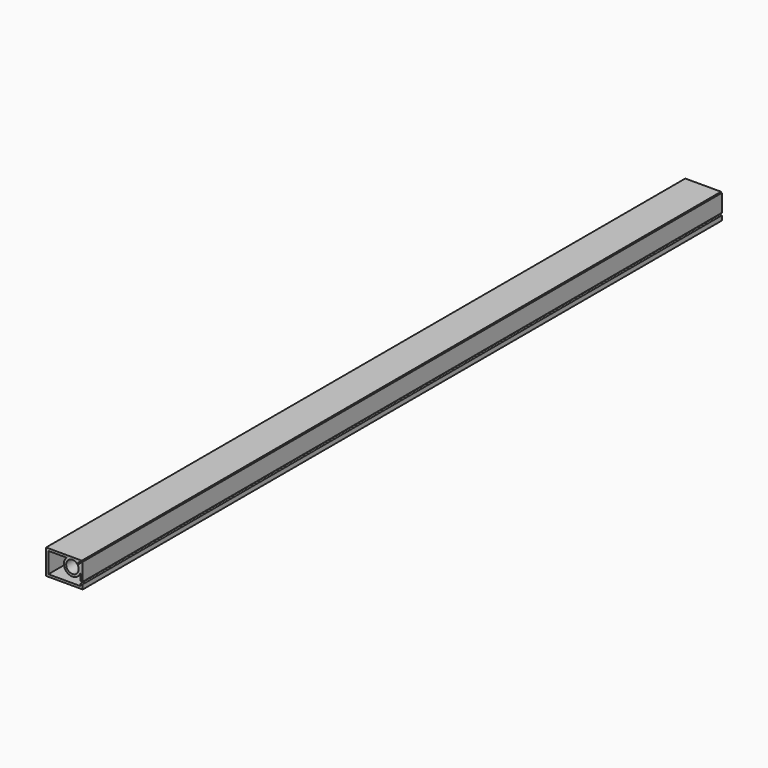
from build123d import *

# Parameters (mm, degrees)
F2_DEPTH = 1910
F7_DEPTH = 700
F9_DEPTH = 2000


with BuildPart() as f2:
    # F1 (on Front) → F2 (new body)
    with BuildSketch(Plane.XZ):
        with BuildLine():
            Line((7.5, 37.974085065), (7.5, 40))
            Line((7.5, 40), (-15, 40))
            Line((-15, 40), (-15, 37))
            Line((-15, 37), (-15, 31))
            Line((-15, 31), (-15, 29))
            Line((-15, 29), (-15, 26))
            Line((-15, 26), (-15, 24))
            Line((-15, 24), (-13, 24))
            Line((-13, 24), (-11, 24))
            Line((-11, 24), (-11, 26))
            Line((-11, 26), (-9, 26))
            Line((-9, 26), (-9, 20))
            Line((-9, 20), (-11, 20))
            Line((-11, 20), (-11, 22))
            Line((-11, 22), (-15, 22))
            Line((-15, 22), (-15, 18))
            Line((-15, 18), (-15, 7.7))
            Line((-15, 7.7), (-13, 7.7))
            Line((-13, 7.7), (-13, 11.4920835048))
            Line((-13, 11.4920835048), (-7, 11.4920835048))
            Line((-7, 11.4920835048), (-7, 3.7))
            Line((-7, 3.7), (-11, 3.7))
            Line((-11, 3.7), (-11, 5.7))
            Line((-11, 5.7), (-15, 5.7))
            Line((-15, 5.7), (-15, 3))
            Line((-15, 3), (-15, 0))
            Line((-15, 0), (-13, 0))
            Line((-13, 0), (-12, 0))
            Line((-12, 0), (-5, 0))
            Line((-5, 0), (-5, 13.4920835048))
            Line((-5, 13.4920835048), (-7, 13.4920835048))
            Line((-7, 13.4920835048), (-9.1588944197, 13.4920835048))
            Line((-9.1588944197, 13.4920835048), (-9.1588944197, 15.4920835048))
            Line((-9.1588944197, 15.4920835048), (1.5, 20))
            Line((1.5, 20), (10.8411055803, 15.4920835048))
            Line((10.8411055803, 15.4920835048), (10.8411055803, 13.4920835048))
            Line((10.8411055803, 13.4920835048), (8, 13.4920835048))
            Line((8, 13.4920835048), (8, 0))
            Line((8, 0), (17, 0))
            Line((17, 0), (17, 40))
            Line((17, 40), (8.5, 40))
            Line((8.5, 40), (8.5, 37.974085065))
            ThreePointArc((8.5, 37.974085065), (11.5604089792, 36.6859489396), (13.3185590744, 33.8691589154))
            Line((13.3185590744, 33.8691589154), (13.4318527537, 31.7073867348))
            ThreePointArc((13.4318527537, 31.7073867348), (4.0126863822, 28.7323088758), (7.5, 37.974085065))
        make_face()
        Polygon((-8.3634709733, 18), (-11.1588944197, 16.817744602), (-11.1588944197, 15.4920835048), (-11.1588944197, 13.4920835048), (-13, 13.4920835048), (-13, 18), align=None, mode=Mode.SUBTRACT)
        with BuildLine():
            Line((-13, 34), (-13, 37.9999987781))
            Line((-13, 37.9999987781), (2.9081163149, 37.9999987781))
            ThreePointArc((2.9081163149, 37.9999987781), (3.810445381, 26.2974906682), (15, 29.8410427327))
            Line((15, 29.8410427327), (15, 2))
            Line((15, 2), (10, 2))
            Line((10, 2), (10, 12))
            Line((10, 12), (12.8411055803, 12))
            Line((12.8411055803, 12), (12.8411055803, 16.7476188273))
            Line((12.8411055803, 16.7476188273), (1.5543358685, 22.194491783))
            Line((1.5543358685, 22.194491783), (-7, 18.5766464184))
            Line((-7, 18.5766464184), (-7, 28))
            Line((-7, 28), (-13, 28))
            Line((-13, 28), (-13, 34))
        make_face(mode=Mode.SUBTRACT)
        with BuildLine():
            Line((13.0918836851, 37.9999987781), (13.1020709306, 37.9999987781))
            Line((13.1020709306, 37.9999987781), (13.1025921338, 37.9900536295))
            ThreePointArc((13.1025921338, 37.9900536295), (13.0972403349, 37.9950288154), (13.0918836851, 37.9999987781))
        make_face(mode=Mode.SUBTRACT)
    extrude(amount=-F2_DEPTH)

    # F8 (on face) → F9 (cut)
    with BuildSketch(Plane.XZ):
        Polygon((17, 0), (17, 40), (-15, 40), (-15, 3), (-15, 0), align=None)
    extrude(amount=-F9_DEPTH, mode=Mode.SUBTRACT)


with BuildPart() as f7:
    # F6 (on face) → F7 (new body)
    with BuildSketch(Plane.XZ):
        with BuildLine():
            Line((-17.7814291848, 40), (-25.5, 40))
            Line((-25.5, 40), (-49.096, 40))
            Line((-49.096, 40), (-49.096, 18))
            Line((-49.096, 18), (-17, 18))
            Line((-17, 18), (-17, 22))
            Line((-17, 22), (-19, 22))
            Line((-19, 22), (-19, 20))
            Line((-19, 20), (-47.096, 20))
            Line((-47.096, 20), (-47.096, 38))
            Line((-47.096, 38), (-31.0964418097, 38))
            ThreePointArc((-31.0964418097, 38), (-30.1932729017, 26.2962600635), (-19, 29.8323432536))
            Line((-19, 29.8323432536), (-19, 24))
            Line((-19, 24), (-17, 24))
            Line((-17, 24), (-17, 39.349379475))
            Line((-17, 39.349379475), (-21.4759115093, 35.6227207421))
            ThreePointArc((-21.4759115093, 35.6227207421), (-30.2216849679, 28.9915813466), (-22.1157647548, 36.3912178626))
            Line((-22.1157647548, 36.3912178626), (-17.7814291848, 40))
        make_face()
    extrude(amount=-F7_DEPTH)


solid = f7.part
